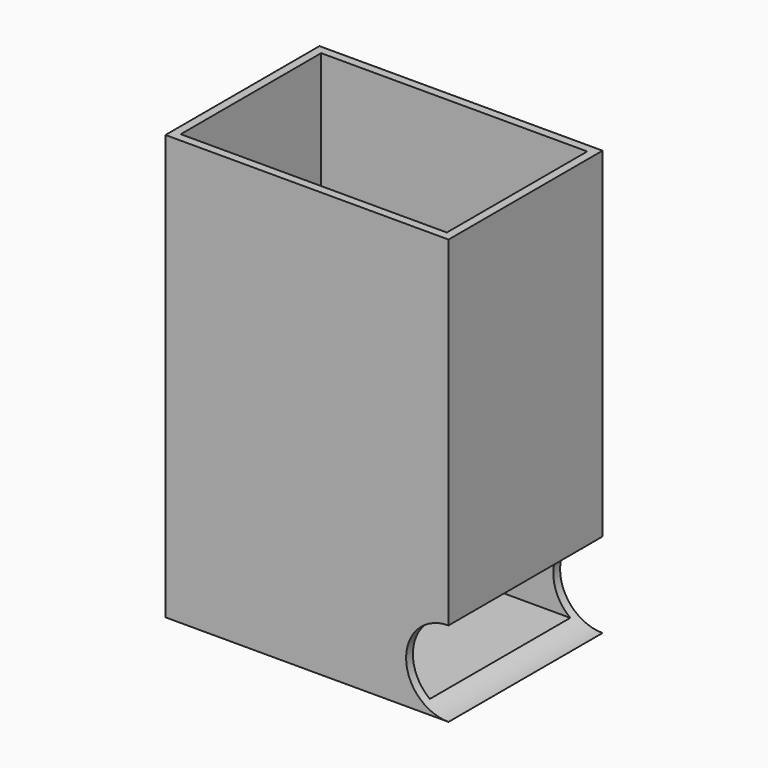
from build123d import *

# Parameters (mm, degrees)
F1_DEPTH = 34
F2_T     = -1.5


with BuildPart() as f1:
    # F0 (on Front) → F1 (new body)
    with BuildSketch(Plane.XZ):
        with BuildLine():
            Line((0, 75), (-50, 75))
            Line((-50, 75), (-50, 0))
            Line((-50, 0), (0, 0))
            ThreePointArc((0, 0), (-7.5, 7.5), (0, 15))
            Line((0, 15), (0, 75))
        make_face()
    extrude(amount=F1_DEPTH)

    # F2
    f2_openings = [f1.faces().sort_by_distance(p)[0] for p in [
        (-25, -17, 75),
        (-7.5, -17, 7.5),
    ]]
    offset(amount=F2_T, openings=f2_openings)


solid = f1.part
